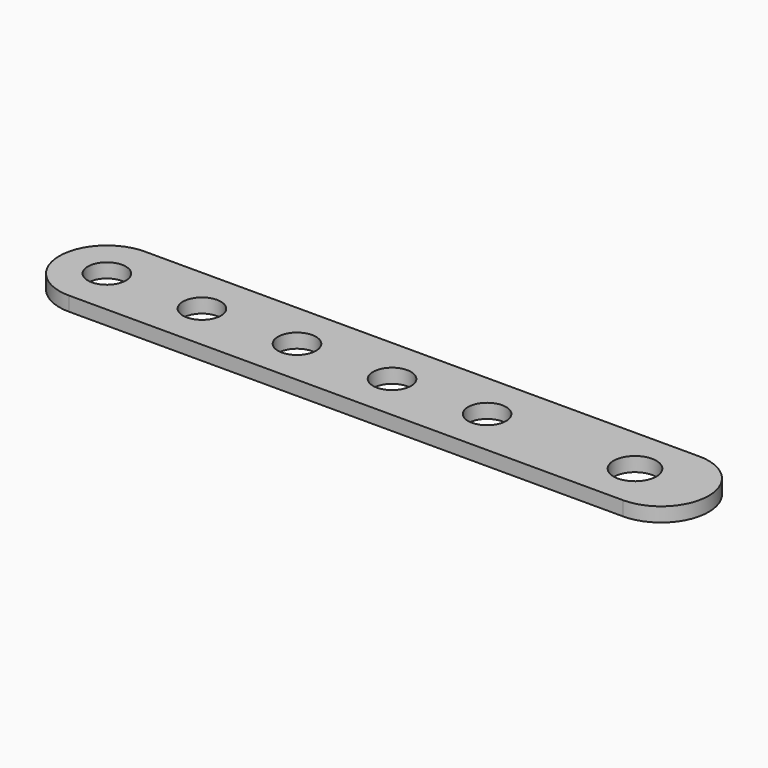
from build123d import *

# Parameters (mm, degrees)
F0_R     = 4.5
F1_DEPTH = 3
F2_R     = 4
F3_DEPTH = 3.001


with BuildPart() as f1:
    # F0 (on Top) → F1 (new body)
    with BuildSketch(Plane.XY):
        with BuildLine():
            ThreePointArc((5.5, -10), (15.5, 0), (5.5, 10))
            Line((5.5, 10), (-111.117097, 10))
            ThreePointArc((-111.117097, 10), (-121.117097, 0), (-111.117097, -10))
            Line((-111.117097, -10), (5.5, -10))
        make_face()
        Circle(F0_R, mode=Mode.SUBTRACT)
    extrude(amount=F1_DEPTH)

    # F2 (on face) → F3 (cut, through all)
    with BuildSketch(Plane.XY.offset(3)):
        with Locations((-111.117097, 0)):
            Circle(F2_R)
        with Locations((-91.117097, 0)):
            Circle(F2_R)
        with Locations((-71.117097, 0)):
            Circle(F2_R)
        with Locations((-51.117097, 0)):
            Circle(F2_R)
        with Locations((-31.117097, 0)):
            Circle(F2_R)
    extrude(amount=-F3_DEPTH, mode=Mode.SUBTRACT)


solid = f1.part
